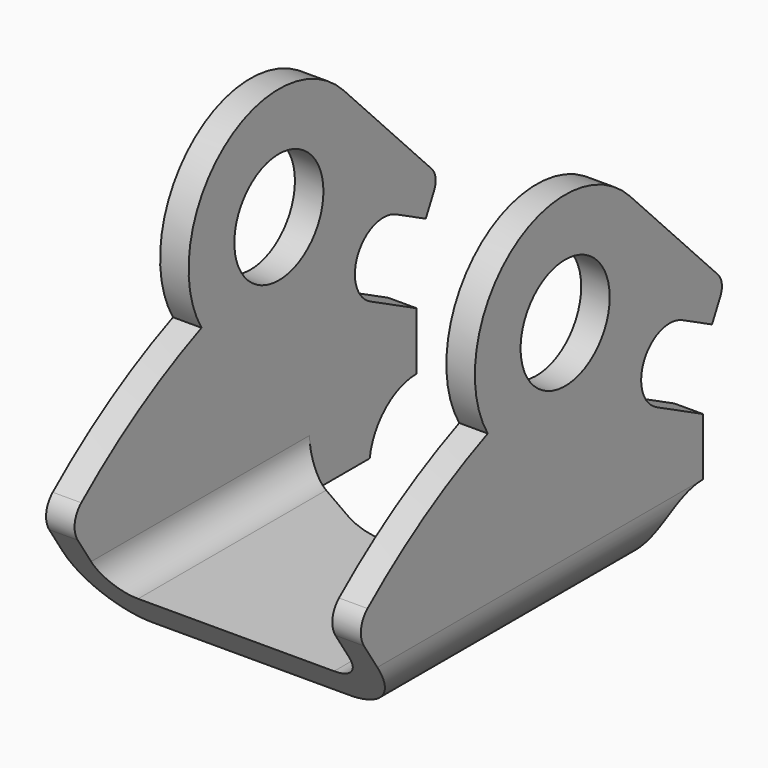
from build123d import *

# Parameters (mm, degrees)
F1_DEPTH = 12.7
F2_R     = 2.38125
F3_DEPTH = 25.4
F5_DEPTH = 12.7


with BuildPart() as f1:
    # F0 (on Front) → F1 (new body, symmetric)
    with BuildSketch(Plane.XZ):
        with BuildLine():
            ThreePointArc((-6.731, 2.54), (-5.987051, 0.743949), (-4.191, 0))
            Line((-4.191, 0), (4.191, 0))
            ThreePointArc((4.191, 0), (5.987051, 0.743949), (6.731, 2.54))
            Line((6.731, 2.54), (6.731, 25.4))
            Line((6.731, 25.4), (5.5118, 25.4))
            Line((5.5118, 25.4), (5.5118, 2.54))
            ThreePointArc((5.5118, 2.54), (5.124947, 1.606053), (4.191, 1.2192))
            Line((4.191, 1.2192), (-4.191, 1.2192))
            ThreePointArc((-4.191, 1.2192), (-5.124947, 1.606053), (-5.5118, 2.54))
            Line((-5.5118, 2.54), (-5.5118, 25.4))
            Line((-5.5118, 25.4), (-6.731, 25.4))
            Line((-6.731, 25.4), (-6.731, 2.54))
        make_face()
    extrude(amount=F1_DEPTH, both=True)

    # F2 (on Right) → F3 (intersect, symmetric)
    with BuildSketch(Plane.YZ):
        with BuildLine():
            Line((-10.756956, 3.640789), (-8.382, 0))
            Line((-8.382, 0), (4.826, 0))
            ThreePointArc((4.826, 0), (5.572779, 1.793221), (7.366, 2.54))
            Line((7.366, 2.54), (7.366, 5.003639))
            Line((7.366, 5.003639), (4.896118, 6.262106))
            ThreePointArc((4.896118, 6.262106), (4.230106, 8.311882), (6.279882, 8.977894))
            Line((6.279882, 8.977894), (7.852802, 8.176451))
            Line((7.852802, 8.176451), (8.298947, 9.052059))
            ThreePointArc((8.298947, 9.052059), (8.373581, 9.510956), (8.167681, 9.927802))
            Line((8.167681, 9.927802), (3.468643, 14.785412))
            ThreePointArc((3.468643, 14.785412), (-2.939764, 15.257279), (-4.136388, 8.943925))
            ThreePointArc((-4.136388, 8.943925), (-7.502613, 7.201857), (-10.565319, 4.9689))
            ThreePointArc((-10.565319, 4.9689), (-10.911586, 4.340983), (-10.756956, 3.640789))
        make_face()
        with Locations((0, 11.43)):
            Circle(F2_R, mode=Mode.SUBTRACT)
    extrude(amount=F3_DEPTH, both=True, mode=Mode.INTERSECT)

    # F4 (on Top) → F5 (cut, symmetric)
    with BuildSketch(Plane.XY):
        with BuildLine():
            Line((-5.5118, 3.468643), (-5.5118, 1.640347))
            Line((-5.5118, 1.640347), (-2.670635, 0))
            Line((-2.670635, 0), (-2.413, -0.148746))
            ThreePointArc((-2.413, -0.148746), (0, -0.795307), (2.413, -0.148746))
            Line((2.413, -0.148746), (5.5118, 1.640347))
            Line((5.5118, 1.640347), (5.5118, 3.468643))
            Line((5.5118, 3.468643), (5.5118, 11.050733))
            Line((5.5118, 11.050733), (-5.5118, 11.050733))
            Line((-5.5118, 11.050733), (-5.5118, 3.468643))
        make_face()
    extrude(amount=F5_DEPTH, both=True, mode=Mode.SUBTRACT)


solid = f1.part
